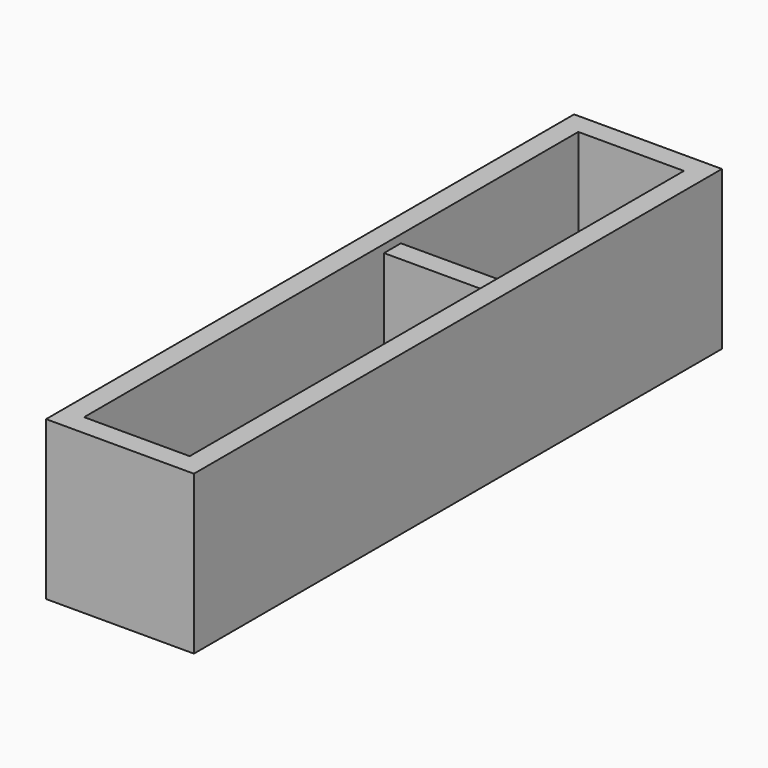
from build123d import *

# Parameters (mm, degrees)
F1_DEPTH = 4
F0_W     = 28
F0_H     = 79
F2_DEPTH = 30
F3_W     = 10
F3_H     = 1.5
F4_DEPTH = 4
F6_DEPTH = 30
F5_W     = 20
F5_H     = 42
F7_DEPTH = 4
F8_R     = 5
F9_DEPTH = 4


with BuildPart() as f1:
    # F0 (on Top) → F1 (new body)
    with BuildSketch(Plane.XY):
        Polygon((17, 4), (24, 4), (24, 75), (4, 75), (4, 4), (11, 4), (11, 5.5), (14, 5.5), (17, 5.5), align=None)
    extrude(amount=F1_DEPTH)

    # F0 (on Top) → F2 (join)
    with BuildSketch(Plane.XY):
        with Locations((14, 39.5)):
            Rectangle(F0_W, F0_H)
        Polygon((24, 75), (24, 4), (17, 4), (14, 4), (11, 4), (4, 4), (4, 75), align=None, mode=Mode.SUBTRACT)
    extrude(amount=F2_DEPTH)

    # F3 (on face) → F4 (cut, through all)
    with BuildSketch(Plane(origin=(0, 79, 0), x_dir=(-1, 0, 0), z_dir=(0, 1, 0))):
        with Locations((-9, 29.25)):
            Rectangle(F3_W, F3_H)
        with Locations((-19, 29.25)):
            Rectangle(F3_W, F3_H)
    extrude(amount=-F4_DEPTH, mode=Mode.SUBTRACT)

    # F5 (on Top) → F6 (join)
    with BuildSketch(Plane.XY):
        Polygon((24, 79), (28, 79), (28, 125), (0, 125), (0, 79), (4, 79), (4, 121), (24, 121), align=None)
    extrude(amount=F6_DEPTH)

    # F5 (on Top) → F7 (join)
    with BuildSketch(Plane.XY):
        with Locations((14, 100)):
            Rectangle(F5_W, F5_H)
    extrude(amount=F7_DEPTH)

    # F8 (on face) → F9 (cut, through all)
    with BuildSketch(Plane(origin=(0, 125, 0), x_dir=(-1, 0, 0), z_dir=(0, 1, 0))):
        with Locations((-14, 15)):
            Circle(F8_R)
    extrude(amount=-F9_DEPTH, mode=Mode.SUBTRACT)


solid = f1.part
